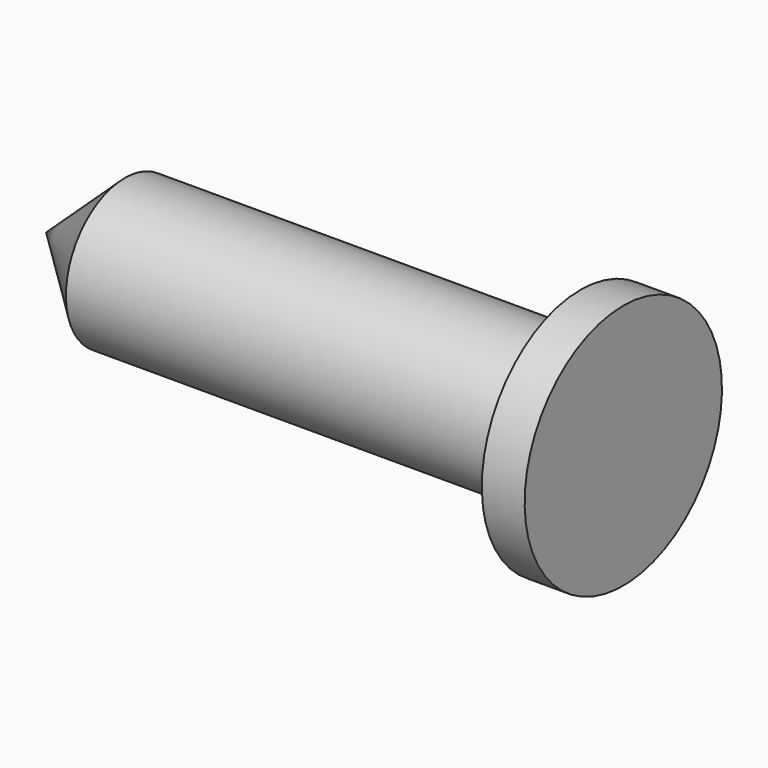
from build123d import *

# Parameters (mm, degrees)
F0_W = 79.265028
F0_H = 12.81352


with BuildPart() as f1:
    # F0 (on Front) → F1 (revolve)
    with BuildSketch(Plane.XZ):
        Rectangle(F0_W, F0_H)
        Polygon((-39.632514, -6.40676), (-39.632514, 6.40676), (-53.339999, -6.40676), align=None)
        Polygon((39.632514, 15.048436), (39.632514, 6.40676), (39.632514, -6.40676), (47.082234, -6.40676), (47.082234, 15.048436), align=None)
    revolve(axis=Axis((0, 0, -6.40676), (1, 0, 0)))


solid = f1.part
